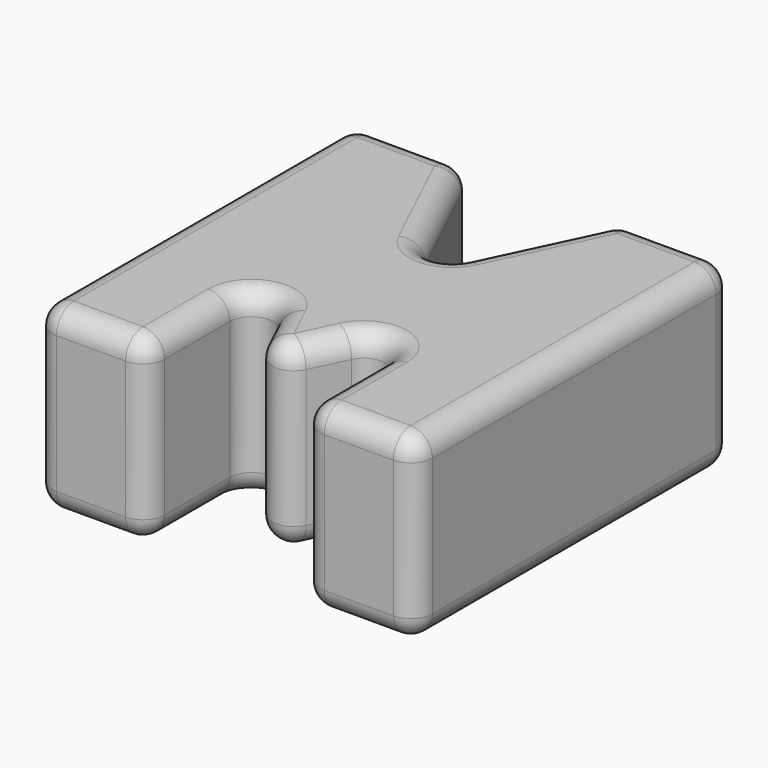
from build123d import *

# Parameters (mm, degrees)
F1_DEPTH = 25
F2_R     = 3


with BuildPart() as f1:
    # F0 (on Top) → F1 (new body)
    with BuildSketch(Plane.XY):
        Polygon((-10.764389, 55.096675), (-26.344426, 55.096675), (-26.344426, 0), (-10.764389, 0), (-10.764389, 27.619155), (0, 4.957283), (0, 32.434803), align=None)
        Polygon((10.764389, 55.096675), (0, 32.434803), (0, 4.957283), (10.764389, 27.619155), (10.764389, 0), (26.344426, 0), (26.344426, 55.096675), align=None)
    extrude(amount=F1_DEPTH)

    # F2
    f2_edges = [f1.edges().sort_by_distance(p)[0] for p in [
        (-5.382195, 43.765739, 25),
        (-18.554408, 55.096675, 25),
        (-26.344426, 27.548337, 25),
        (-18.554408, 0, 25),
        (-10.764389, 13.809578, 25),
        (-5.382195, 16.288219, 25),
        (5.382195, 16.288219, 25),
        (10.764389, 13.809578, 25),
        (18.554408, 0, 25),
        (26.344426, 27.548337, 25),
        (18.554408, 55.096675, 25),
        (5.382195, 43.765739, 25),
        (26.344426, 0, 12.5),
        (26.344426, 55.096675, 12.5),
        (26.344426, 27.548337, 0),
        (10.764389, 55.096675, 12.5),
        (-5.382195, 43.765739, 0),
        (-18.554408, 55.096675, 0),
        (-26.344426, 27.548337, 0),
        (-18.554408, 0, 0),
        (-10.764389, 13.809578, 0),
        (-5.382195, 16.288219, 0),
        (5.382195, 16.288219, 0),
        (10.764389, 13.809578, 0),
        (18.554408, 0, 0),
        (18.554408, 55.096675, 0),
        (5.382195, 43.765739, 0),
        (10.764389, 27.619155, 12.5),
        (10.764389, 0, 12.5),
        (-10.764389, 27.619155, 12.5),
        (0, 4.957283, 12.5),
        (-26.344426, 0, 12.5),
        (-10.764389, 0, 12.5),
        (-10.764389, 55.096675, 12.5),
        (-26.344426, 55.096675, 12.5),
        (0, 32.434803, 12.5),
    ]]
    fillet(f2_edges, radius=F2_R)


solid = f1.part
